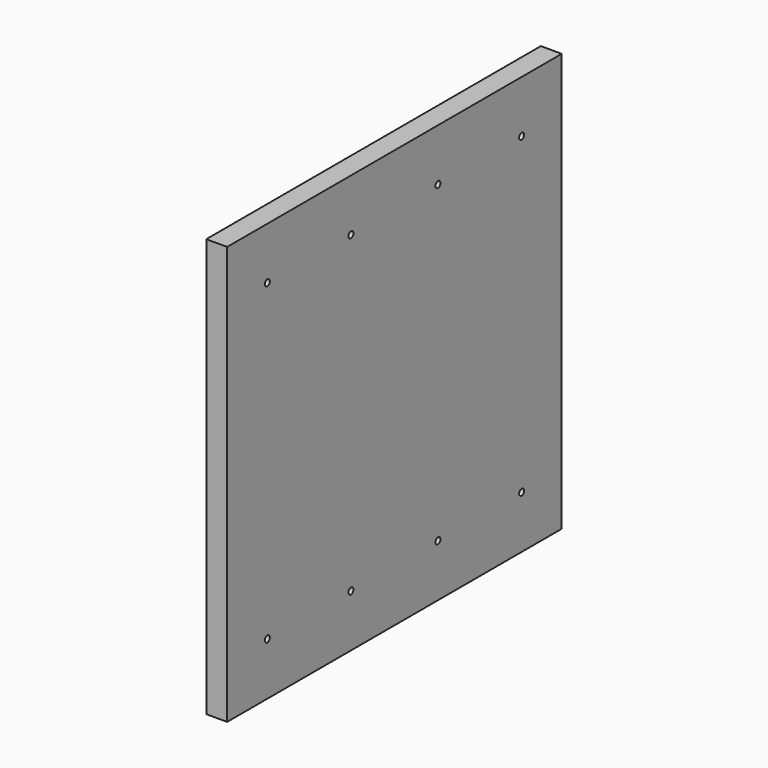
from build123d import *

# Parameters (mm, degrees)
F0_W     = 200
F0_H     = 200
F0_R     = 1.5
F1_DEPTH = 10
F2_SIZE  = 1
F3_SIZE  = 1


with BuildPart() as f1:
    # F0 (on Right) → F1 (new body)
    with BuildSketch(Plane.YZ):
        Rectangle(F0_W, F0_H)
        with Locations((-76, -74.842677)):
            Circle(F0_R, mode=Mode.SUBTRACT)
        with Locations((-26.000124, -74.953997)):
            Circle(F0_R, mode=Mode.SUBTRACT)
        with Locations((26, -74.941815)):
            Circle(F0_R, mode=Mode.SUBTRACT)
        with Locations((76, -74.842677)):
            Circle(F0_R, mode=Mode.SUBTRACT)
        with Locations((-76, 75.157323)):
            Circle(F0_R, mode=Mode.SUBTRACT)
        with Locations((-26, 75.046003)):
            Circle(F0_R, mode=Mode.SUBTRACT)
        with Locations((26, 75.058185)):
            Circle(F0_R, mode=Mode.SUBTRACT)
        with Locations((76, 75.058185)):
            Circle(F0_R, mode=Mode.SUBTRACT)
    extrude(amount=F1_DEPTH)

    # F2
    f2_edges = [f1.edges().sort_by_distance(p)[0] for p in [
        (0, -77.5, -74.842677),
        (0, -27.500124, -74.953997),
        (0, -27.5, 75.046003),
        (0, -77.5, 75.157323),
    ]]
    chamfer(f2_edges, length=F2_SIZE)

    # F3
    f3_edges = [f1.edges().sort_by_distance(p)[0] for p in [
        (0, 24.5, -74.941815),
        (0, 24.5, 75.058185),
        (0, 74.5, 75.058185),
    ]]
    chamfer(f3_edges, length=F3_SIZE)


solid = f1.part
